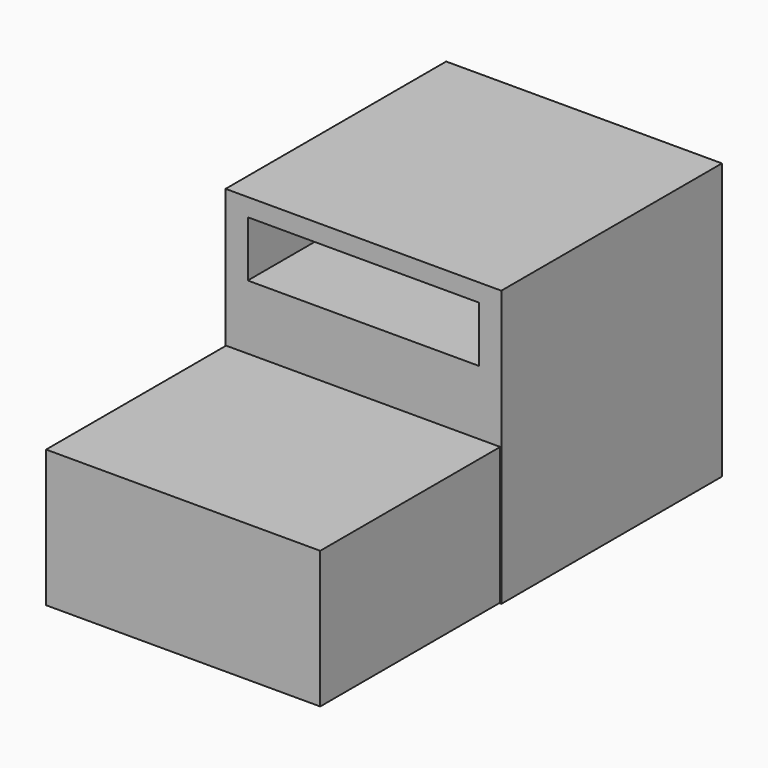
from build123d import *

# Parameters (mm, degrees)
F0_W     = 127
F0_H     = 127
F0_W_2   = 106.550378
F0_H_2   = 25.665418
F1_DEPTH = 127
F2_W     = 126.253121
F2_H     = 63.126564
F3_DEPTH = 230.632


with BuildPart() as f1:
    # F0 (on Front) → F1 (new body)
    with BuildSketch(Plane.XZ):
        Rectangle(F0_W, F0_H)
        with Locations((0, 42.484045)):
            Rectangle(F0_W_2, F0_H_2, mode=Mode.SUBTRACT)
        Rectangle(F0_W, F0_H)
        with Locations((0, 42.484045)):
            Rectangle(F0_W_2, F0_H_2, mode=Mode.SUBTRACT)
    extrude(amount=F1_DEPTH)

    # F2 (on Front) → F3 (join)
    with BuildSketch(Plane.XZ):
        with Locations((-0.129621, -31.563282)):
            Rectangle(F2_W, F2_H)
    extrude(amount=F3_DEPTH)


solid = f1.part
